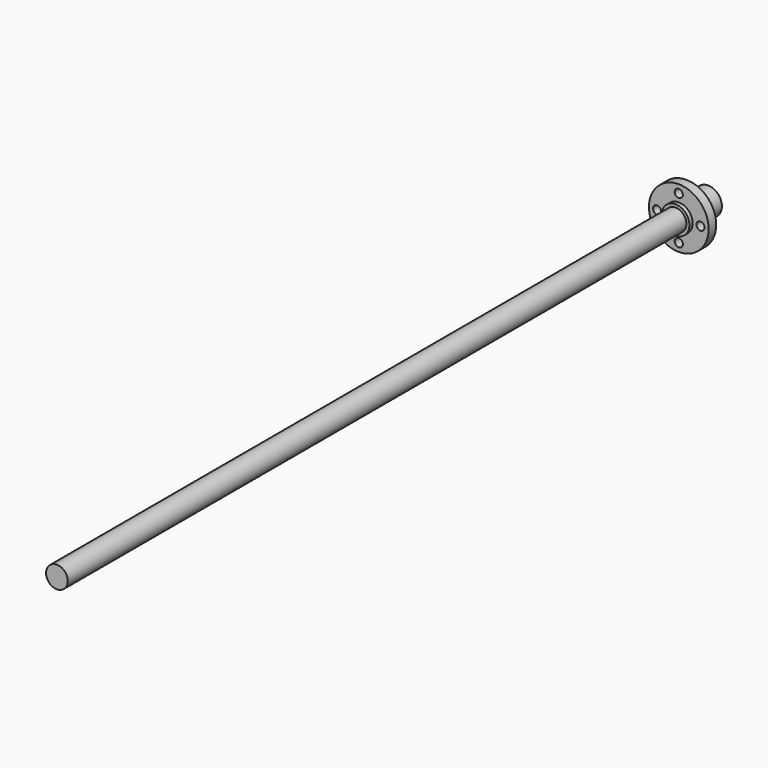
from build123d import *

# Parameters (mm, degrees)
F0_R     = 4
F1_DEPTH = 300
F2_R     = 5.1
F2_R_2   = 4
F3_DEPTH = 15
F5_R     = 11
F5_R_2   = 1.5
F5_R_3   = 5.1
F6_DEPTH = 3.5


with BuildPart() as f1:
    # F0 (on Front) → F1 (new body)
    with BuildSketch(Plane.XZ):
        Circle(F0_R)
    extrude(amount=F1_DEPTH)


with BuildPart() as f3:
    # F2 (on Front) → F3 (new body)
    with BuildSketch(Plane.XZ):
        Circle(F2_R)
        Circle(F2_R_2, mode=Mode.SUBTRACT)
    extrude(amount=F3_DEPTH)

    # F5 (on offset) → F6 (join)
    with BuildSketch(Plane.XZ.offset(13.5)):
        Circle(F5_R)
        with Locations((0, -8)):
            Circle(F5_R_2, mode=Mode.SUBTRACT)
        with Locations((-8, 0)):
            Circle(F5_R_2, mode=Mode.SUBTRACT)
        Circle(F5_R_3, mode=Mode.SUBTRACT)
        with Locations((8, 0)):
            Circle(F5_R_2, mode=Mode.SUBTRACT)
        with Locations((0, 8)):
            Circle(F5_R_2, mode=Mode.SUBTRACT)
    extrude(amount=-F6_DEPTH)


solid = Compound([f1.part, f3.part])
